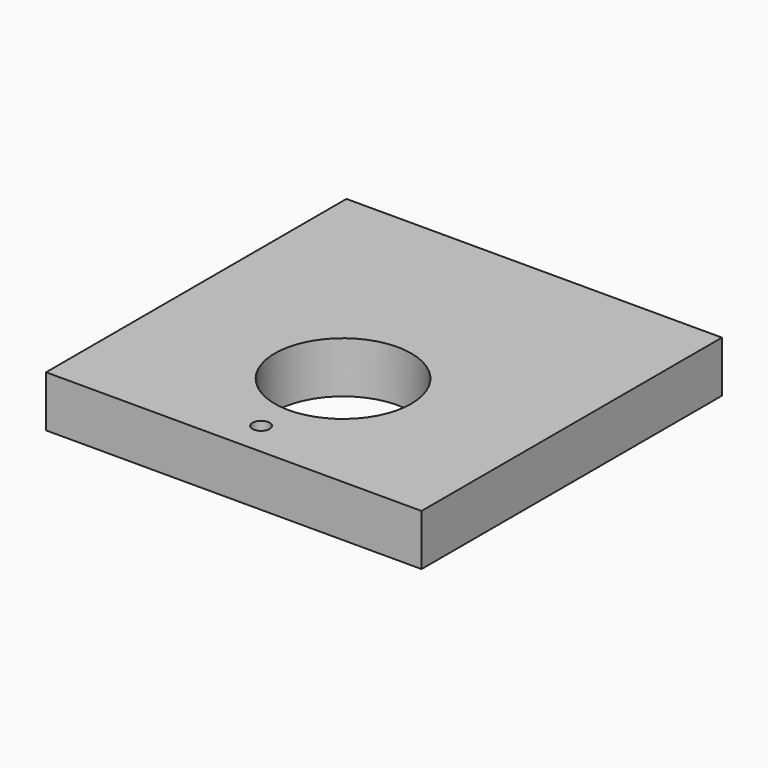
from build123d import *

# Parameters (mm, degrees)
F0_W     = 139.7
F0_H     = 139.7
F0_R     = 3.175
F0_R_2   = 25.4
F1_DEPTH = 19.05


with BuildPart() as f1:
    # F0 (on Top) → F1 (new body)
    with BuildSketch(Plane.XY):
        Rectangle(F0_W, F0_H)
        with Locations((0, -57.15)):
            Circle(F0_R, mode=Mode.SUBTRACT)
        with Locations((0, -19.05)):
            Circle(F0_R_2, mode=Mode.SUBTRACT)
    extrude(amount=F1_DEPTH)


solid = f1.part
